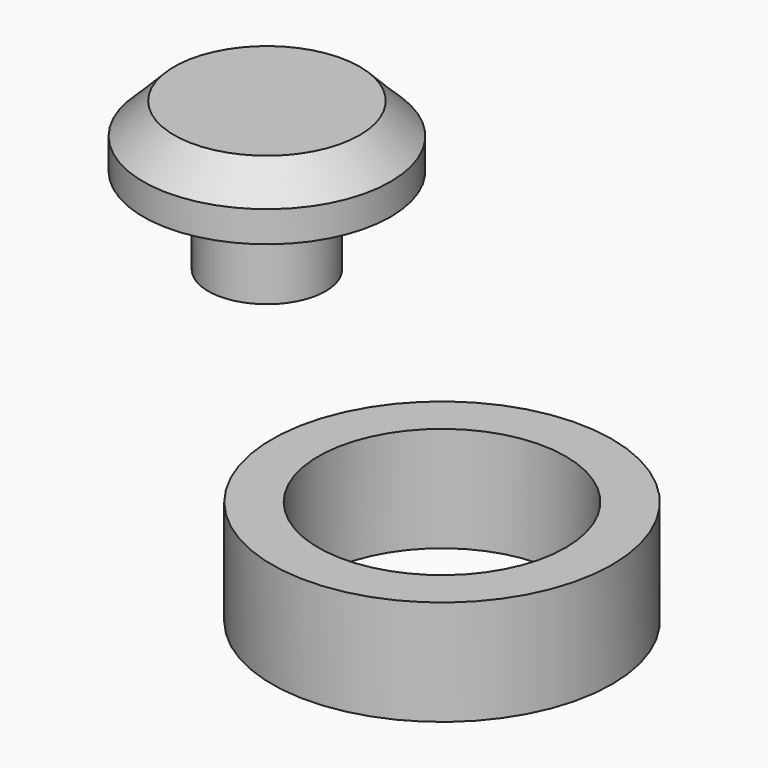
from build123d import *

# Parameters (mm, degrees)
F0_R     = 6.985
F0_R_2   = 5.08
F1_DEPTH = 4.318
F2_R     = 2.413
F3_DEPTH = 1.524
F4_R     = 5.08
F4_R_2   = 2.413
F5_DEPTH = 2.54
F6_SIZE  = 1.27
F7_DEPTH = 2.032


with BuildPart() as f1:
    # F0 (on Top) → F1 (new body)
    with BuildSketch(Plane.XY):
        Circle(F0_R)
        Circle(F0_R_2, mode=Mode.SUBTRACT)
    extrude(amount=F1_DEPTH)


with BuildPart() as f3:
    # F2 (on Top) → F3 (new body)
    with BuildSketch(Plane.XY):
        with Locations((-22.0915284008, 18.6256598681)):
            Circle(F2_R)
    extrude(amount=F3_DEPTH)

    # F4 (on face) → F5 (join)
    with BuildSketch(Plane.XY.offset(1.524)):
        with Locations((-22.0915284008, 18.6256598681)):
            Circle(F4_R)
        with Locations((-22.0915284008, 18.6256598681)):
            Circle(F4_R_2, mode=Mode.SUBTRACT)
        with Locations((-22.0915284008, 18.6256598681)):
            Circle(F4_R_2)
    extrude(amount=F5_DEPTH)

    # F6
    f6_edges = [f3.edges().sort_by_distance(p)[0] for p in [
        (-27.171528, 18.62566, 4.064),
    ]]
    chamfer(f6_edges, length=F6_SIZE)

    # F7 (add): a face of the model
    f7_faces = [f3.faces().sort_by_distance(p)[0] for p in [
        (-22.0915284008, 18.6256598681, 0),
    ]]
    extrude(f7_faces, amount=F7_DEPTH)


solid = Compound([f1.part, f3.part])
